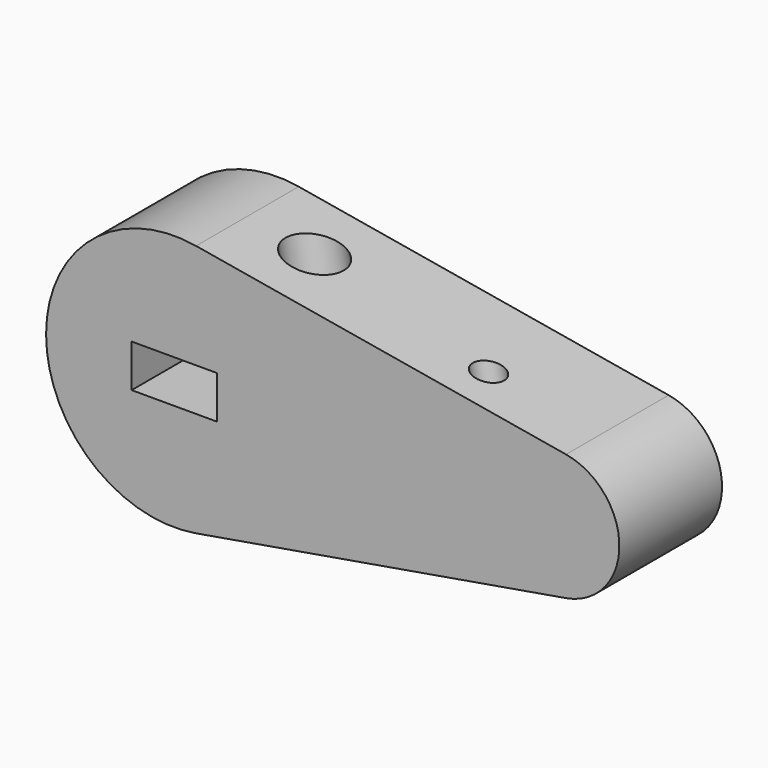
from build123d import *

# Parameters (mm, degrees)
F1_DEPTH = 30
F2_W     = 20
F2_H     = 10
F3_DEPTH = 30
F4_R     = 6.5
F5_DEPTH = 64.6280276847
F7_D     = 7


with BuildPart() as f1:
    # F0 (on Front) → F1 (new body)
    with BuildSketch(Plane.XZ):
        with BuildLine():
            Line((91.5280898876, 14.7854239547), (5.0561797753, 29.5708479094))
            ThreePointArc((5.0561797753, 29.5708479094), (-30, 0), (5.0561797753, -29.5708479094))
            Line((5.0561797753, -29.5708479094), (91.5280898876, -14.7854239547))
            ThreePointArc((91.5280898876, -14.7854239547), (104, 0), (91.5280898876, 14.7854239547))
        make_face()
    extrude(amount=F1_DEPTH)

    # F2 (on face) → F3 (cut)
    with BuildSketch(Plane.XZ.offset(30)):
        Rectangle(F2_W, F2_H)
    extrude(amount=-F3_DEPTH, mode=Mode.SUBTRACT)

    # F4 (on face) → F5 (cut, through all)
    with BuildSketch(Plane(origin=(5.0561797753, 0, -29.5708479094), x_dir=(0.9856949303, 0, 0.1685393258), z_dir=(0.1685393258, 0, -0.9856949303))):
        with Locations((25, 15)):
            Circle(F4_R)
    extrude(amount=-F5_DEPTH, mode=Mode.SUBTRACT)

    # F7 (through all)
    with Locations(Plane(origin=(5.0561797753, 0, -29.5708479094), x_dir=(0.9856949303, 0, 0.1685393258), z_dir=(0.1685393258, 0, -0.9856949303))):
        with Locations((67.7268487978, 20)):
            Hole(F7_D / 2)


solid = f1.part
